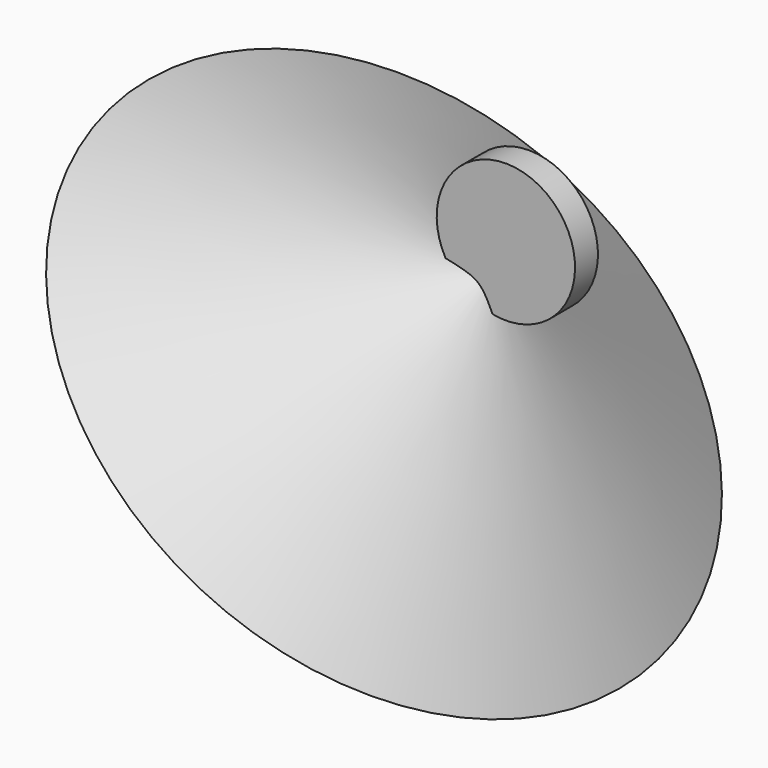
from build123d import *

# Parameters (mm, degrees)
F2_R     = 15.3258762198
F3_DEPTH = 3.175


with BuildPart() as f1:
    # F0 (on Front) → F1 (revolve)
    with BuildSketch(Plane.XZ):
        Polygon((7.1875617813, 44.2527769698), (-41.9178099346, -15.901777391), (34.7302481532, -28.3509995788), align=None)
    revolve(axis=Axis((-17.3651240766, 0, 14.1754997894), (0.6323734996, 0, 0.7746636412)))

    # F2 (on Front) → F3 (join, symmetric)
    with BuildSketch(Plane.XZ):
        with Locations((12.1820587665, 52.786462009)):
            Circle(F2_R)
    extrude(amount=F3_DEPTH, both=True)


solid = f1.part
